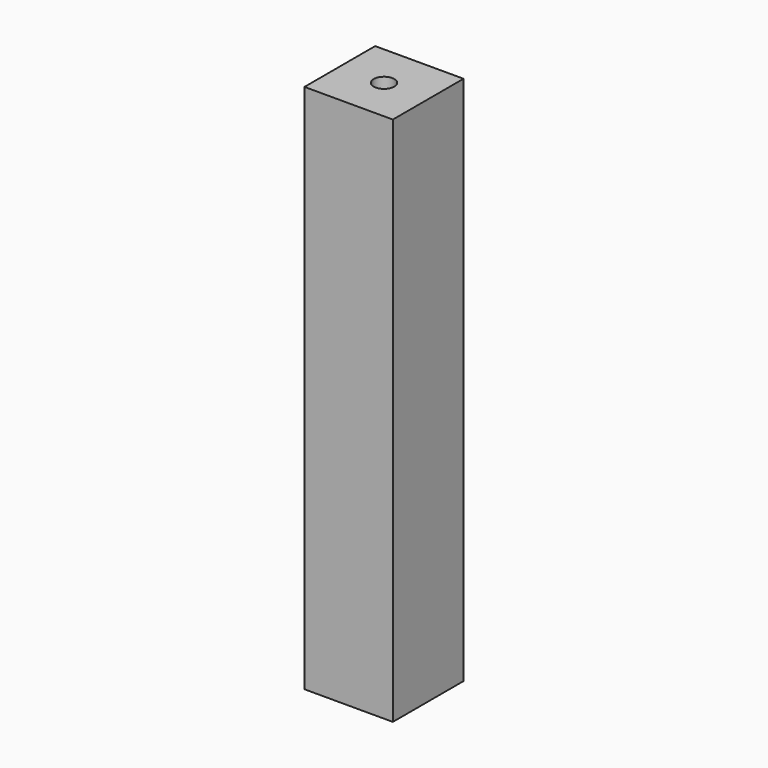
from build123d import *

# Parameters (mm, degrees)
F0_W     = 38.1
F0_H     = 38.1
F1_DEPTH = 228.6
F3_D     = 5.08
F3_DEPTH = 25.4
F3_TIP   = 1.5261859723
F5_D     = 8.89
F5_DEPTH = 25.4
F5_TIP   = 2.6708254516


with BuildPart() as f1:
    # F0 (on Top) → F1 (new body)
    with BuildSketch(Plane.XY):
        with Locations((-6.3936419293, 6.0720348239)):
            Rectangle(F0_W, F0_H)
    extrude(amount=F1_DEPTH)

    # F3
    with Locations(Plane(origin=(0, 0, 0), x_dir=(1, 0, 0), z_dir=(0, 0, -1))):
        with Locations((-6.3936419293, -6.0720348239)):
            Hole(F3_D / 2, depth=F3_DEPTH)
            with Locations((0, 0, -(F3_DEPTH + F3_TIP / 2))):  # 118° drill point
                Cone(0, F3_D / 2, F3_TIP, mode=Mode.SUBTRACT)

    # F5
    with Locations(Plane.XY.offset(228.6)):
        with Locations((-6.3936419293, 6.0720348239)):
            Hole(F5_D / 2, depth=F5_DEPTH)
            with Locations((0, 0, -(F5_DEPTH + F5_TIP / 2))):  # 118° drill point
                Cone(0, F5_D / 2, F5_TIP, mode=Mode.SUBTRACT)


solid = f1.part
